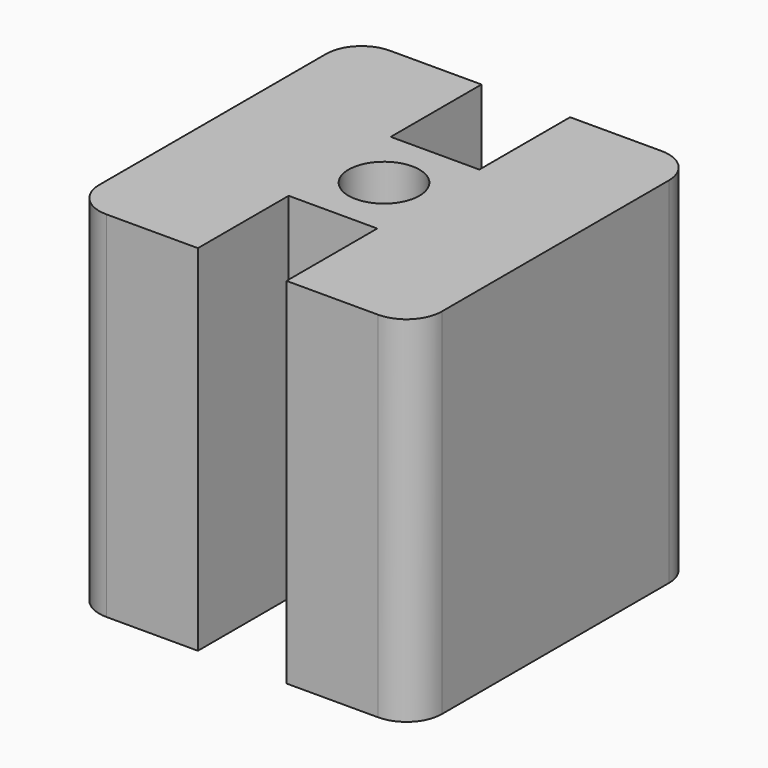
from build123d import *

# Parameters (mm, degrees)
F0_W     = 24.553348
F0_H     = 25.4
F1_DEPTH = 25.4
F2_R     = 2.54
F3_DEPTH = 25.4
F4_R     = 2.54
F5_W     = 6.35
F5_H     = 16.256
F6_DEPTH = 25.4
F7_W     = 6.35
F7_H     = 8.128
F9_DEPTH = 25.4


with BuildPart() as f1:
    # F0 (on Top) → F1 (new body)
    with BuildSketch(Plane.XY):
        Rectangle(F0_W, F0_H)
    extrude(amount=F1_DEPTH)

    # F2 (on face) → F3 (cut)
    with BuildSketch(Plane.XY.offset(25.4)):
        Circle(F2_R)
    extrude(amount=-F3_DEPTH, mode=Mode.SUBTRACT)

    # F4
    f4_edges = [f1.edges().sort_by_distance(p)[0] for p in [
        (-12.276674, -12.7, 12.7),
        (-12.276674, 12.7, 12.7),
        (12.276674, -12.7, 12.7),
        (12.276674, 12.7, 12.7),
    ]]
    fillet(f4_edges, radius=F4_R)

    # F5 (on face) → F6 (cut)
    with BuildSketch(Plane.XY.offset(25.4)):
        with Locations((0, 12.7)):
            Rectangle(F5_W, F5_H)
    extrude(amount=-F6_DEPTH, mode=Mode.SUBTRACT)

    # F7 (on face) → F9 (cut)
    with BuildSketch(Plane.XY.offset(25.4)):
        with Locations((0, 8.636)):
            Rectangle(F7_W, F7_H)
        Polygon((-3.175, -4.572), (-3.175001, -12.7), (3.174999, -12.7), (3.175, -4.572), align=None)
    extrude(amount=-F9_DEPTH, mode=Mode.SUBTRACT)


solid = f1.part
